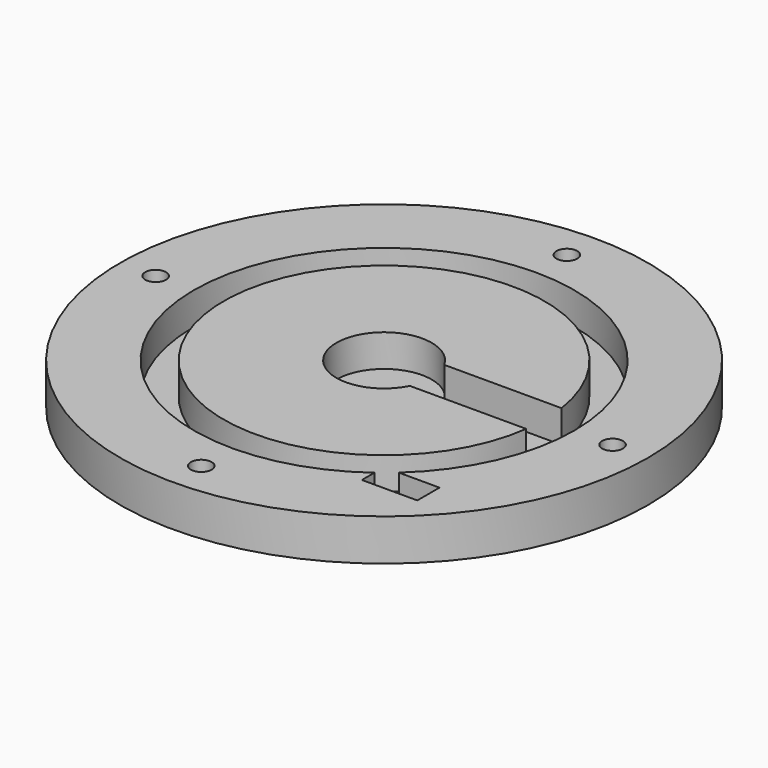
from build123d import *

# Parameters (mm, degrees)
F0_R     = 57.15
F1_DEPTH = 9
F2_R     = 41.1777557501
F2_R_2   = 34.7361553424
F3_DEPTH = 7
F5_DEPTH = 7
F6_W     = 12
F6_H     = 6
F7_DEPTH = 9
F9_D     = 4.4958


with BuildPart() as f1:
    # F0 (on Top) → F1 (new body)
    with BuildSketch(Plane.XY):
        Circle(F0_R)
    extrude(amount=F1_DEPTH)

    # F2 (on face) → F3 (cut)
    with BuildSketch(Plane.XY.offset(9)):
        Circle(F2_R)
        Circle(F2_R_2, mode=Mode.SUBTRACT)
    extrude(amount=-F3_DEPTH, mode=Mode.SUBTRACT)

    # F4 (on face) → F5 (cut)
    with BuildSketch(Plane.XY.offset(9)):
        with BuildLine():
            ThreePointArc((9.2364512329, -4.5815780759), (10.0382703258, -2.3528743932), (10.3103292403, 0))
            ThreePointArc((10.3103292403, 0), (9.9709085428, 2.6237133751), (8.9749942157, 5.0746790905))
            Line((8.9749942157, 5.0746790905), (8.9749942157, -4.5815780759))
            Line((8.9749942157, -4.5815780759), (9.2364512329, -4.5815780759))
        make_face()
        with BuildLine():
            Line((37.7700850368, 5.0746790905), (34.3634707226, 5.0746790905))
            ThreePointArc((34.3634707226, 5.0746790905), (34.6428588969, 2.544172837), (34.7361553424, 0))
            ThreePointArc((34.7361553424, 0), (34.6602041198, -2.2958088649), (34.4326825895, -4.5815780759))
            Line((34.4326825895, -4.5815780759), (37.7700850368, -4.5815780759))
            Line((37.7700850368, -4.5815780759), (37.7700850368, 5.0746790905))
        make_face()
        with BuildLine():
            Line((8.9749942157, -4.5815780759), (8.9749942157, 5.0746790905))
            ThreePointArc((8.9749942157, 5.0746790905), (-10.3065518942, -0.27906468), (9.2364512329, -4.5815780759))
            Line((9.2364512329, -4.5815780759), (8.9749942157, -4.5815780759))
        make_face()
        with BuildLine():
            ThreePointArc((8.9749942157, 5.0746790905), (9.9709085428, 2.6237133751), (10.3103292403, 0))
            ThreePointArc((10.3103292403, 0), (10.0382703258, -2.3528743932), (9.2364512329, -4.5815780759))
            Line((9.2364512329, -4.5815780759), (34.4326825895, -4.5815780759))
            ThreePointArc((34.4326825895, -4.5815780759), (34.6602041198, -2.2958088649), (34.7361553424, 0))
            ThreePointArc((34.7361553424, 0), (34.6428588969, 2.544172837), (34.3634707226, 5.0746790905))
            Line((34.3634707226, 5.0746790905), (8.9749942157, 5.0746790905))
        make_face()
    extrude(amount=-F5_DEPTH, mode=Mode.SUBTRACT)

    # F6 (on face) → F7 (cut)
    with BuildSketch(Plane(origin=(0, 0, 0), x_dir=(1, 0, 0), z_dir=(0, 0, -1))):
        with Locations((30.4291332662, 33.5408807993)):
            Rectangle(F6_W, F6_H)
    extrude(amount=-F7_DEPTH, mode=Mode.SUBTRACT)

    # F9 (through all)
    with Locations(Plane.XY.offset(9)):
        with Locations((0, 49.4705886591), (-49.4705886591, 0), (0, -49.4705886591), (49.4705886591, 0)):
            Hole(F9_D / 2)


solid = f1.part
